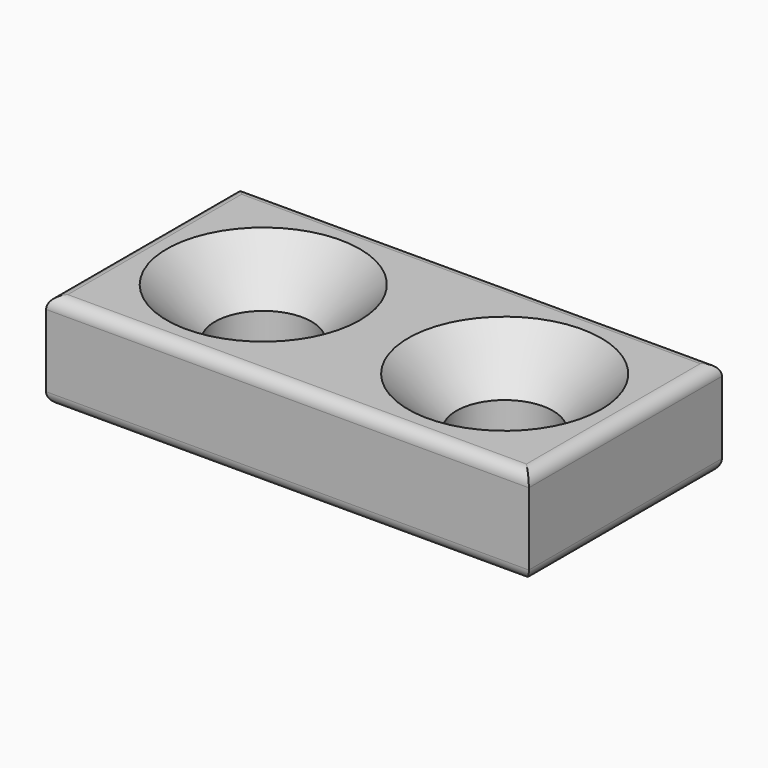
from build123d import *

# Parameters (mm, degrees)
F0_R     = 2
F1_DEPTH = 4
F2_R     = 0.5
F3_SIZE  = 2


with BuildPart() as f1:
    # F0 (on Top) → F1 (new body)
    with BuildSketch(Plane.XY):
        Polygon((0, -5), (10, -5), (10, 5), (0, 5), (-10, 5), (-10, -5), align=None)
        with Locations((-5, 0)):
            Circle(F0_R, mode=Mode.SUBTRACT)
        with Locations((5, 0)):
            Circle(F0_R, mode=Mode.SUBTRACT)
    extrude(amount=F1_DEPTH)

    # F2
    f2_edges = [f1.edges().sort_by_distance(p)[0] for p in [
        (0, -5, 4),
        (-10, 0, 4),
        (0, 5, 4),
        (10, 0, 4),
        (-10, 0, 0),
        (0, -5, 0),
        (10, 0, 0),
        (0, 5, 0),
    ]]
    fillet(f2_edges, radius=F2_R)

    # F3
    f3_edges = [f1.edges().sort_by_distance(p)[0] for p in [
        (3, 0, 4),
        (-7, 0, 4),
    ]]
    chamfer(f3_edges, length=F3_SIZE)


solid = f1.part
